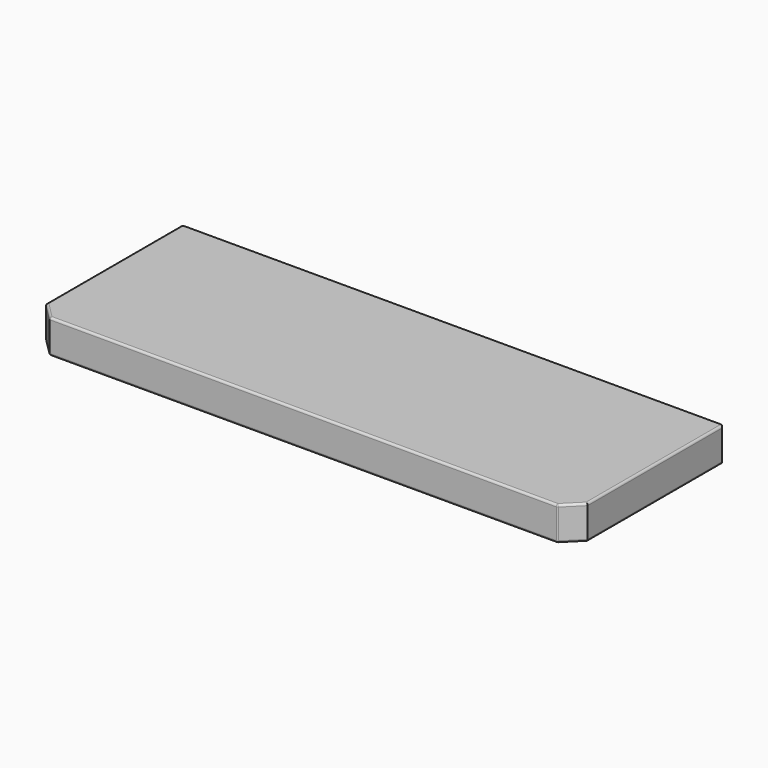
from build123d import *

# Parameters (mm, degrees)
F0_W     = 812.8
F0_H     = 279.4
F1_DEPTH = 50.8
F2_SIZE  = 25.4
F3_R     = 3.175


with BuildPart() as f1:
    # F0 (on Top) → F1 (new body)
    with BuildSketch(Plane.XY):
        with Locations((-406.4, 63.2626240712)):
            Rectangle(F0_W, F0_H)
    extrude(amount=F1_DEPTH)

    # F2
    f2_edges = [f1.edges().sort_by_distance(p)[0] for p in [
        (0, -76.437376, 25.4),
        (-812.8, -76.437376, 25.4),
    ]]
    chamfer(f2_edges, length=F2_SIZE)

    # F3
    f3_edges = [f1.edges().sort_by_distance(p)[0] for p in [
        (-406.4, -76.437376, 0),
        (-787.4, -76.437376, 25.4),
        (-25.4, -76.437376, 25.4),
        (-406.4, -76.437376, 50.8),
        (-800.1, -63.737376, 50.8),
        (-800.1, -63.737376, 0),
        (-12.7, -63.737376, 0),
        (-12.7, -63.737376, 50.8),
        (-812.8, 75.962624, 0),
        (0, 75.962624, 0),
        (0, 75.962624, 50.8),
        (-812.8, 75.962624, 50.8),
        (-812.8, 202.962624, 25.4),
        (0, 202.962624, 25.4),
    ]]
    fillet(f3_edges, radius=F3_R)


solid = f1.part
